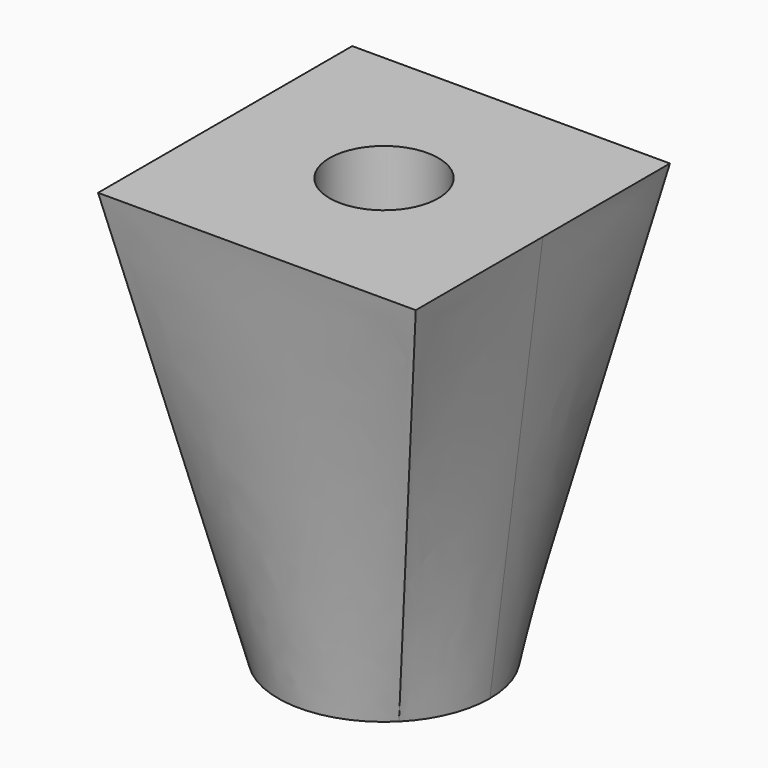
from build123d import *

# Parameters (mm, degrees)
F0_R     = 6.35
F2_W     = 19.05
F2_H     = 19.05
F5_D     = 6.5278
F5_DEPTH = 12.7
F5_TIP   = 1.9611489744


with BuildPart() as f3:
    # F0 (on Top) → F3 section 0
    with BuildSketch(Plane.XY):
        Circle(F0_R)
    # F2 (on offset) → F3 section 1
    with BuildSketch(Plane.XY.offset(25.4)):
        Rectangle(F2_W, F2_H)
    loft()

    # F5
    with Locations(Plane.XY.offset(25.4)):
        with Locations((0, 0)):
            Hole(F5_D / 2, depth=F5_DEPTH)
            with Locations((0, 0, -(F5_DEPTH + F5_TIP / 2))):  # 118° drill point
                Cone(0, F5_D / 2, F5_TIP, mode=Mode.SUBTRACT)


solid = f3.part
